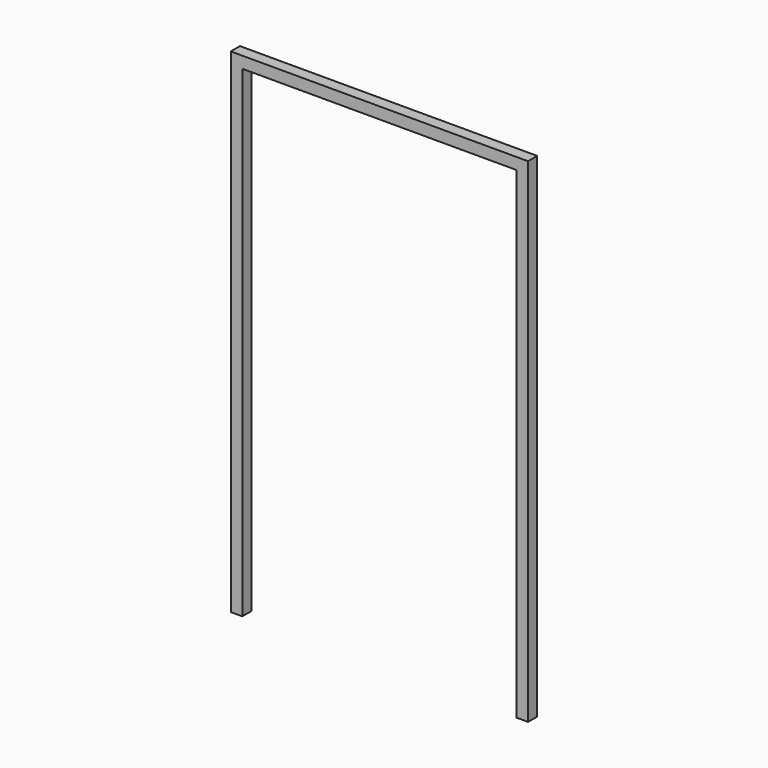
from build123d import *

# Parameters (mm, degrees)
F0_W     = 42
F0_H     = 42
F1_DEPTH = 1800
F2_W     = 42
F2_H     = 42
F3_DEPTH = 1000
F4_W     = 42
F4_H     = 42
F5_DEPTH = 1800


with BuildPart() as f1:
    # F0 (on Top) → F1 (new body)
    with BuildSketch(Plane.XY):
        with Locations((21, -21)):
            Rectangle(F0_W, F0_H)
    extrude(amount=F1_DEPTH)

    # F2 (on face) → F3 (join)
    with BuildSketch(Plane.YZ.offset(42)):
        with Locations((-21, 1779)):
            Rectangle(F2_W, F2_H)
    extrude(amount=F3_DEPTH)

    # F4 (on face) → F5 (join)
    with BuildSketch(Plane.XY.offset(1800)):
        with Locations((1063, -21)):
            Rectangle(F4_W, F4_H)
    extrude(amount=-F5_DEPTH)


solid = f1.part
